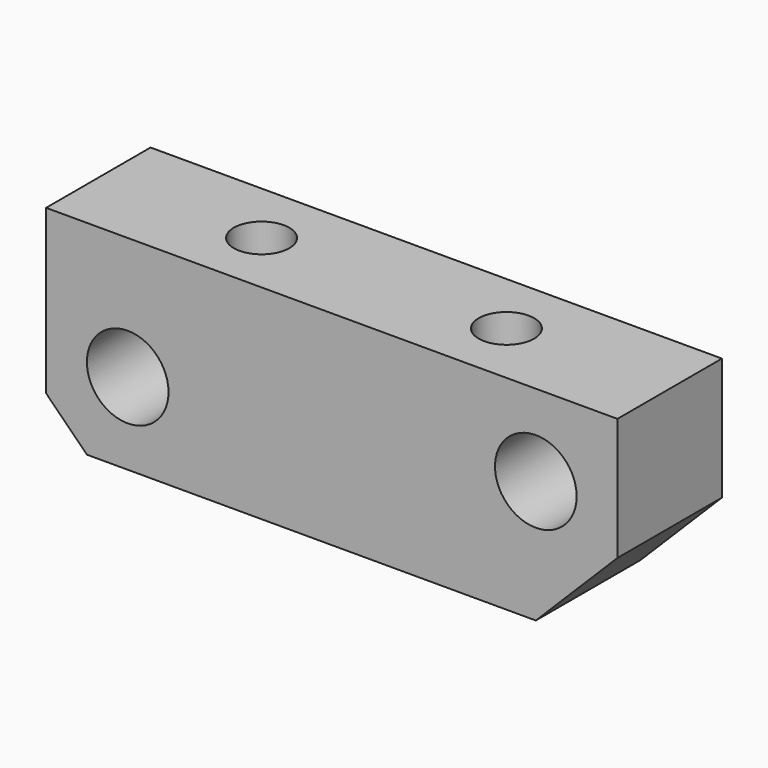
from build123d import *

# Parameters (mm, degrees)
F0_W     = 70
F0_H     = 25
F1_DEPTH = 8
F2_SIZE  = 5
F3_SIZE  = 10
F4_R     = 5
F5_DEPTH = 16
F7_D     = 6.8
F7_DEPTH = 18.75
F7_TIP   = 2.0429261047


with BuildPart() as f1:
    # F0 (on Front) → F1 (new body, symmetric)
    with BuildSketch(Plane.XZ):
        Rectangle(F0_W, F0_H)
    extrude(amount=F1_DEPTH, both=True)

    # F2
    f2_edges = [f1.edges().sort_by_distance(p)[0] for p in [
        (-35, 0, -12.5),
    ]]
    chamfer(f2_edges, length=F2_SIZE)

    # F3
    f3_edges = [f1.edges().sort_by_distance(p)[0] for p in [
        (35, 0, -12.5),
    ]]
    chamfer(f3_edges, length=F3_SIZE)

    # F4 (on face) → F5 (cut)
    with BuildSketch(Plane.XZ.offset(8)):
        with Locations((-25, -2.5)):
            Circle(F4_R)
        with Locations((25, 2.5)):
            Circle(F4_R)
    extrude(amount=-F5_DEPTH, mode=Mode.SUBTRACT)

    # F7
    with Locations(Plane.XY.offset(12.5)):
        with Locations((-15, 0), (15, 0)):
            Hole(F7_D / 2, depth=F7_DEPTH)
            with Locations((0, 0, -(F7_DEPTH + F7_TIP / 2))):  # 118° drill point
                Cone(0, F7_D / 2, F7_TIP, mode=Mode.SUBTRACT)


solid = f1.part
